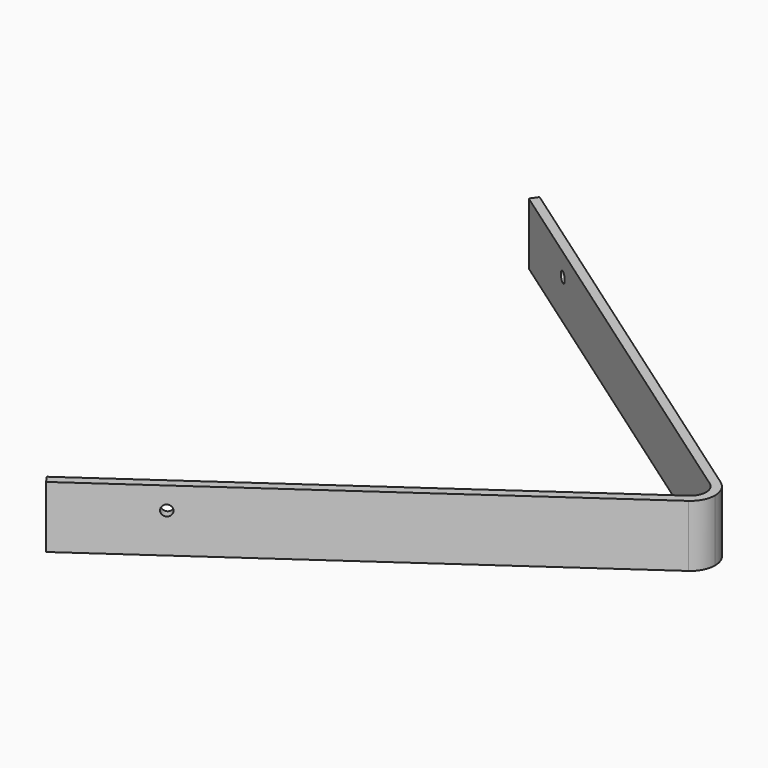
from build123d import *

# Parameters (mm, degrees)
PAD002_DEPTH           = 70
SKETCH006_R            = 6
POCKET002_DEPTH        = 30
SKETCH007_R            = 6
POCKET003_DEPTH        = 284.764356
LINEARPATTERN001_COUNT = 4
LINEARPATTERN001_PITCH = 130


with BuildPart() as part:
    # Sketch004 → Pad002 (new body)
    with BuildSketch(Plane.XY):
        with BuildLine():
            Line((-451.035292, 350), (16.06014, 22.936257))
            ThreePointArc((28, 0), (24.836303, 12.928961), (16.06014, 22.936257))
            Line((18, 0), (28, 0))
            ThreePointArc((18, 0), (15.966195, 8.311475), (10.324376, 14.744737))
            Line((10.324376, 14.744737), (-456.771056, 341.80848))
            Line((-456.771056, 341.80848), (-451.035292, 350))
        make_face()
    extrude(amount=PAD002_DEPTH)

    # Sketch006 → Pocket002 (cut)
    with BuildSketch(Plane(origin=(0, 126.75, 0), x_dir=(-1, 0, 0), z_dir=(0, 1, 0))):
        with Locations((26.740569, 25.24131)):
            Circle(SKETCH006_R)
    extrude(amount=-POCKET002_DEPTH, mode=Mode.SUBTRACT)

    # Sketch007 (on Face2 of Pocket002) → Pocket003 (cut, through all)
    with BuildSketch(Plane(origin=(10.324376, 14.744737, 0), x_dir=(0.819152, -0.573576, 0), z_dir=(-0.573576, -0.819152, 0))):
        with Locations((-463.045894, 45)):
            Circle(SKETCH007_R)
    pocket003 = extrude(amount=-POCKET003_DEPTH, mode=Mode.SUBTRACT)

    # LinearPattern001: Pocket003 ×4
    with Locations(*[Vector(-0.819152, 0.573576, 0) * (i * LINEARPATTERN001_PITCH) for i in range(1, LINEARPATTERN001_COUNT)]):
        add(pocket003, mode=Mode.SUBTRACT)

    # Mirrored001: part across XZ


with BuildPart() as part_1:
    add(part.part)
    add(part.part.mirror(Plane.XZ))


with BuildPart() as part_2:
    # Body001 placement: moved
    add(part_1.part.moved(Location((0, 0, -20))))


solid = part_2.part
